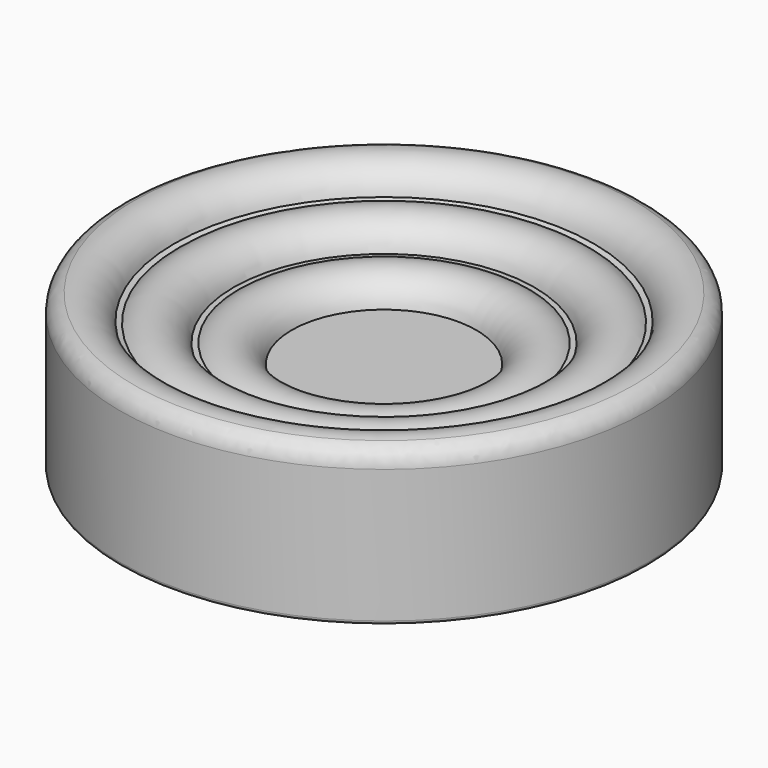
from build123d import *

# Parameters (mm, degrees)
F2_R = 1
F3_R = 0.2
F4_R = 0.2


with BuildPart() as f1:
    # F0 (on Front) → F1 (revolve)
    with BuildSketch(Plane.XZ):
        with BuildLine():
            Line((-14.3, 8), (-14.3, 0))
            Line((-14.3, 0), (-12.8, 0))
            Line((-12.8, 0), (-12.8, 0.111164))
            Line((-12.8, 0.111164), (-12.8, 5.604132))
            ThreePointArc((-12.8, 5.604132), (-12.676592, 5.846651), (-12.407899, 5.889645))
            Line((-12.407899, 5.889645), (-5, 3.5))
            Line((-5, 3.5), (0, 3.5))
            Line((0, 3.5), (0, 5))
            Line((0, 5), (-5, 5))
            ThreePointArc((-5, 5), (-6.14938, 6.289192), (-7.854687, 6.015304))
            Line((-7.854687, 6.015304), (-8.147442, 6.015304))
            ThreePointArc((-8.147442, 6.015304), (-9.347342, 7.321624), (-11.084412, 6.962714))
            Line((-11.084412, 6.962714), (-11.36303, 7.05259))
            ThreePointArc((-11.36303, 7.05259), (-12.562929, 8.35891), (-14.3, 8))
        make_face()
    revolve(axis=Axis((0, 0, 4.25), (0, 0, -1)))

    # F2
    f2_edges = [f1.edges().sort_by_distance(p)[0] for p in [
        (14.3, 0, 8),
    ]]
    fillet(f2_edges, radius=F2_R)

    # F3
    f3_edges = [f1.edges().sort_by_distance(p)[0] for p in [
        (14.3, 0, 0),
    ]]
    fillet(f3_edges, radius=F3_R)

    # F4
    f4_edges = [f1.edges().sort_by_distance(p)[0] for p in [
        (12.8, 0, 0),
    ]]
    fillet(f4_edges, radius=F4_R)


solid = f1.part
